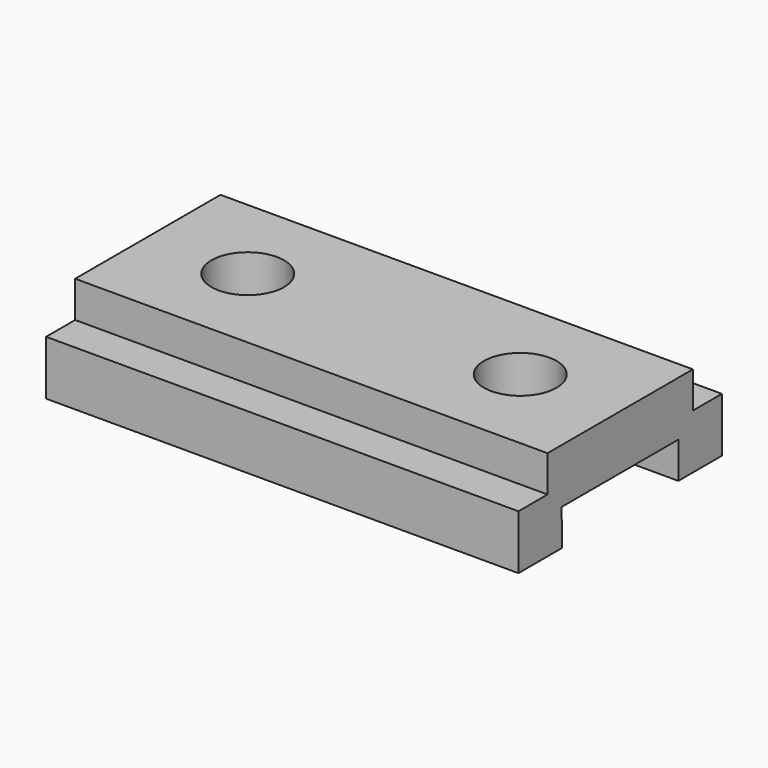
from build123d import *

# Parameters (mm, degrees)
F0_W     = 165.1
F0_H     = 31.75
F1_DEPTH = 88.9
F3_DEPTH = 165.101
F4_W     = 165.1
F4_H     = 12.7
F5_DEPTH = 12.7
F6_W     = 165.1
F6_H     = 12.7
F7_DEPTH = 12.7
F8_R     = 12.7
F9_DEPTH = 31.751


with BuildPart() as f1:
    # F0 (on Front) → F1 (new body)
    with BuildSketch(Plane.XZ):
        with Locations((82.55, -15.875)):
            Rectangle(F0_W, F0_H)
    extrude(amount=F1_DEPTH)

    # F2 (on face) → F3 (cut, through all)
    with BuildSketch(Plane.YZ.offset(165.1)):
        Polygon((-70.034593, -19.05), (-69.85, -31.75), (-19.05, -31.75), (-19.05, -19.05), align=None)
    extrude(amount=-F3_DEPTH, mode=Mode.SUBTRACT)

    # F4 (on face) → F5 (cut)
    with BuildSketch(Plane.XZ.offset(88.9)):
        with Locations((82.55, -6.35)):
            Rectangle(F4_W, F4_H)
    extrude(amount=-F5_DEPTH, mode=Mode.SUBTRACT)

    # F6 (on face) → F7 (cut)
    with BuildSketch(Plane(origin=(0, 0, 0), x_dir=(-1, 0, 0), z_dir=(0, 1, 0))):
        with Locations((-82.55, -6.35)):
            Rectangle(F6_W, F6_H)
    extrude(amount=-F7_DEPTH, mode=Mode.SUBTRACT)

    # F8 (on face) → F9 (cut, through all)
    with BuildSketch(Plane.XY):
        with Locations((34.925, -44.45)):
            Circle(F8_R)
        with Locations((130.175, -44.45)):
            Circle(F8_R)
    extrude(amount=-F9_DEPTH, mode=Mode.SUBTRACT)


solid = f1.part
